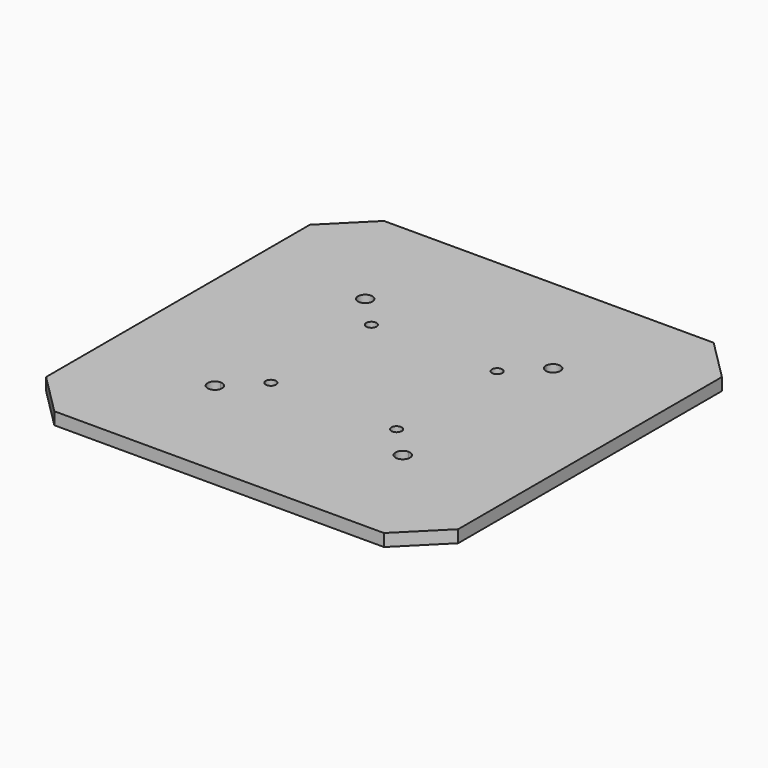
from build123d import *

# Parameters (mm, degrees)
F0_W     = 100
F0_H     = 100
F1_DEPTH = 3
F2_DEPTH = 5
F3_D     = 2.5
F3_DEPTH = 6
F3_TIP   = 0.7510757738
F4_SIZE  = 10


with BuildPart() as f1:
    # F0 (on Top) → F1 (new body)
    with BuildSketch(Plane.XY):
        Rectangle(F0_W, F0_H)
        with BuildLine():
            Line((21.05, -22.8), (-21.05, -22.8))
            ThreePointArc((-21.05, -22.8), (-24.0374368671, -24.0374368671), (-22.8, -21.05))
            Line((-22.8, -21.05), (-22.8, 21.05))
            ThreePointArc((-22.8, 21.05), (-24.0374368671, 24.0374368671), (-21.05, 22.8))
            Line((-21.05, 22.8), (21.05, 22.8))
            ThreePointArc((21.05, 22.8), (22.8, 24.55), (24.55, 22.8))
            ThreePointArc((24.55, 22.8), (24.0374368671, 21.5625631329), (22.8, 21.05))
            Line((22.8, 21.05), (22.8, -21.05))
            ThreePointArc((22.8, -21.05), (24.0374368671, -21.5625631329), (24.55, -22.8))
            ThreePointArc((24.55, -22.8), (22.8, -24.55), (21.05, -22.8))
        make_face(mode=Mode.SUBTRACT)
        with BuildLine():
            ThreePointArc((-22.8, -21.05), (-21.5625631329, -21.5625631329), (-21.05, -22.8))
            Line((-21.05, -22.8), (21.05, -22.8))
            ThreePointArc((21.05, -22.8), (21.5625631329, -21.5625631329), (22.8, -21.05))
            Line((22.8, -21.05), (22.8, 21.05))
            ThreePointArc((22.8, 21.05), (21.5625631329, 21.5625631329), (21.05, 22.8))
            Line((21.05, 22.8), (-21.05, 22.8))
            ThreePointArc((-21.05, 22.8), (-21.5625631329, 21.5625631329), (-22.8, 21.05))
            Line((-22.8, 21.05), (-22.8, -21.05))
        make_face()
        with BuildLine():
            Line((12.65, -15.25), (-12.65, -15.25))
            ThreePointArc((-12.65, -15.25), (-17.0884776311, -17.0884776311), (-15.25, -12.65))
            Line((-15.25, -12.65), (-15.25, 12.65))
            ThreePointArc((-15.25, 12.65), (-17.0884776311, 17.0884776311), (-12.65, 15.25))
            Line((-12.65, 15.25), (12.65, 15.25))
            ThreePointArc((12.65, 15.25), (15.25, 17.85), (17.85, 15.25))
            ThreePointArc((17.85, 15.25), (17.0884776311, 13.4115223689), (15.25, 12.65))
            Line((15.25, 12.65), (15.25, -12.65))
            ThreePointArc((15.25, -12.65), (17.0884776311, -13.4115223689), (17.85, -15.25))
            ThreePointArc((17.85, -15.25), (15.25, -17.85), (12.65, -15.25))
        make_face(mode=Mode.SUBTRACT)
        with BuildLine():
            ThreePointArc((-15.25, -12.65), (-13.4115223689, -13.4115223689), (-12.65, -15.25))
            Line((-12.65, -15.25), (12.65, -15.25))
            ThreePointArc((12.65, -15.25), (13.4115223689, -13.4115223689), (15.25, -12.65))
            Line((15.25, -12.65), (15.25, 12.65))
            ThreePointArc((15.25, 12.65), (13.4115223689, 13.4115223689), (12.65, 15.25))
            Line((12.65, 15.25), (-12.65, 15.25))
            ThreePointArc((-12.65, 15.25), (-13.4115223689, 13.4115223689), (-15.25, 12.65))
            Line((-15.25, 12.65), (-15.25, -12.65))
        make_face()
    extrude(amount=-F1_DEPTH)

    # F0 (on Top) → F2 (join)
    with BuildSketch(Plane.XY):
        with BuildLine():
            Line((-15.25, -15.25), (-12.65, -15.25))
            ThreePointArc((-12.65, -15.25), (-13.4115223689, -13.4115223689), (-15.25, -12.65))
            Line((-15.25, -12.65), (-15.25, -15.25))
        make_face()
        with BuildLine():
            ThreePointArc((-15.25, -12.65), (-17.0884776311, -17.0884776311), (-12.65, -15.25))
            Line((-12.65, -15.25), (-15.25, -15.25))
            Line((-15.25, -15.25), (-15.25, -12.65))
        make_face()
        with BuildLine():
            Line((15.25, -15.25), (12.65, -15.25))
            ThreePointArc((12.65, -15.25), (15.25, -17.85), (17.85, -15.25))
            ThreePointArc((17.85, -15.25), (17.0884776311, -13.4115223689), (15.25, -12.65))
            Line((15.25, -12.65), (15.25, -15.25))
        make_face()
        with BuildLine():
            ThreePointArc((15.25, -12.65), (13.4115223689, -13.4115223689), (12.65, -15.25))
            Line((12.65, -15.25), (15.25, -15.25))
            Line((15.25, -15.25), (15.25, -12.65))
        make_face()
        with BuildLine():
            Line((-15.25, 15.25), (-15.25, 12.65))
            ThreePointArc((-15.25, 12.65), (-13.4115223689, 13.4115223689), (-12.65, 15.25))
            Line((-12.65, 15.25), (-15.25, 15.25))
        make_face()
        with BuildLine():
            ThreePointArc((-12.65, 15.25), (-17.0884776311, 17.0884776311), (-15.25, 12.65))
            Line((-15.25, 12.65), (-15.25, 15.25))
            Line((-15.25, 15.25), (-12.65, 15.25))
        make_face()
        with BuildLine():
            ThreePointArc((12.65, 15.25), (13.4115223689, 13.4115223689), (15.25, 12.65))
            Line((15.25, 12.65), (15.25, 15.25))
            Line((15.25, 15.25), (12.65, 15.25))
        make_face()
        with BuildLine():
            Line((15.25, 15.25), (15.25, 12.65))
            ThreePointArc((15.25, 12.65), (17.0884776311, 13.4115223689), (17.85, 15.25))
            ThreePointArc((17.85, 15.25), (15.25, 17.85), (12.65, 15.25))
            Line((12.65, 15.25), (15.25, 15.25))
        make_face()
    extrude(amount=-F2_DEPTH)

    # F3
    with Locations(Plane.XY):
        with Locations((-15.25, -15.25), (-15.25, 15.25), (15.25, 15.25), (15.25, -15.25)):
            Hole(F3_D / 2, depth=F3_DEPTH)
            with Locations((0, 0, -(F3_DEPTH + F3_TIP / 2))):  # 118° drill point
                Cone(0, F3_D / 2, F3_TIP, mode=Mode.SUBTRACT)

    # F4
    f4_edges = [f1.edges().sort_by_distance(p)[0] for p in [
        (-50, 50, -1.5),
        (50, 50, -1.5),
        (50, -50, -1.5),
        (-50, -50, -1.5),
    ]]
    chamfer(f4_edges, length=F4_SIZE)


solid = f1.part
